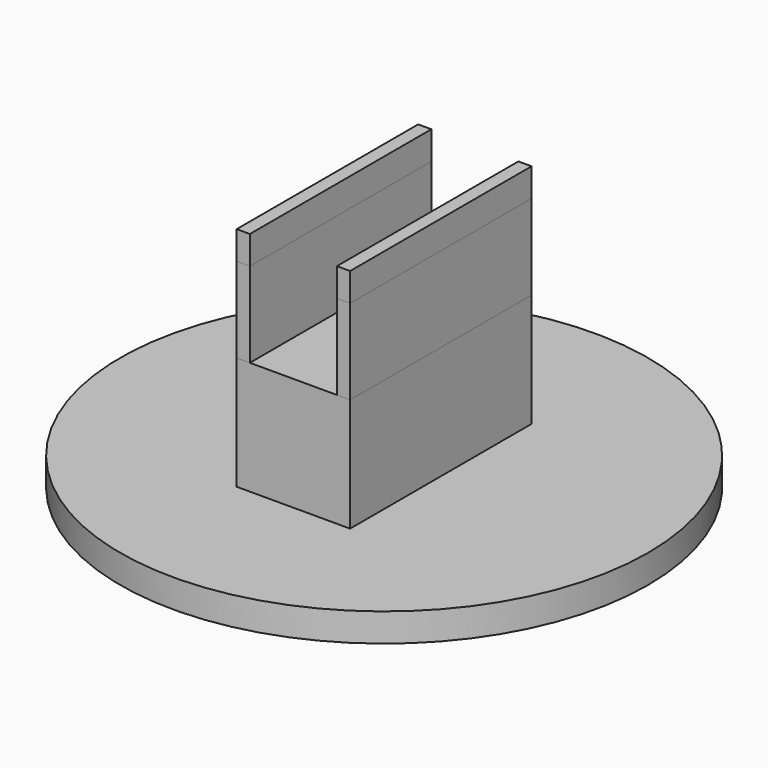
from build123d import *

# Parameters (mm, degrees)
F0_R     = 46.5524103188
F1_DEPTH = 5
F0_W     = 2.325
F0_H     = 40
F2_DEPTH = 40
F3_W     = 20
F3_H     = 40
F4_DEPTH = 25
F5_DEPTH = 5


with BuildPart() as f1:
    # F0 (on Top) → F1 (new body)
    with BuildSketch(Plane.XY):
        Circle(F0_R)
        Polygon((10, -20), (7.675, -20), (-7.675, -20), (-10, -20), (-10, 20), (-7.675, 20), (7.675, 20), (10, 20), align=None, mode=Mode.SUBTRACT)
    extrude(amount=F1_DEPTH)


with BuildPart() as f2:
    # F0 (on Top) → F2 (new body)
    with BuildSketch(Plane.XY):
        with Locations((-8.8375, 0)):
            Rectangle(F0_W, F0_H)
    extrude(amount=F2_DEPTH)


with BuildPart() as f2b:
    # F0 (on Top) → F2, piece 2 (new body)
    with BuildSketch(Plane.XY):
        with Locations((8.8375, 0)):
            Rectangle(F0_W, F0_H)
    extrude(amount=F2_DEPTH)


with BuildPart() as f4:
    # F3 (on Top) → F4 (new body)
    with BuildSketch(Plane.XY):
        Rectangle(F3_W, F3_H)
    extrude(amount=F4_DEPTH)


with BuildPart() as f5:
    # F5 (new): a face of the model
    f5_faces = [f2.part.faces().sort_by_distance(p)[0] for p in [
        (-8.8375, 0, 40),
    ]]
    extrude(f5_faces, amount=F5_DEPTH)


with BuildPart() as f5b:
    # F5#2 (new): a face of the model
    f5_2_faces = [f2b.part.faces().sort_by_distance(p)[0] for p in [
        (8.8375, 0, 40),
    ]]
    extrude(f5_2_faces, amount=F5_DEPTH)


solid = Compound([f1.part, f2.part, f2b.part, f4.part, f5.part, f5b.part])
